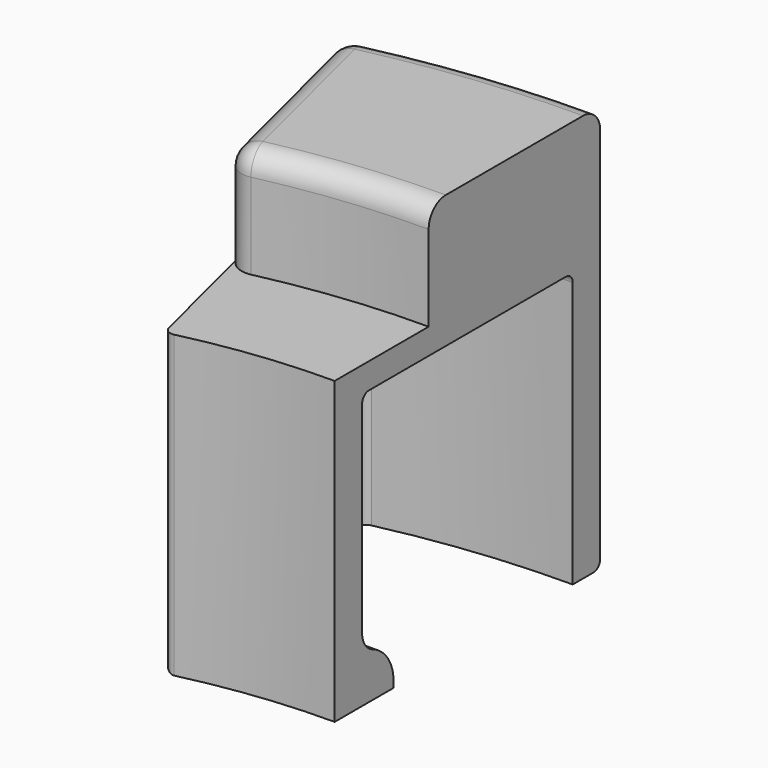
from build123d import *

# Parameters (mm, degrees)
BOX_W             = 10
BOX_H             = 15
BOX_DEPTH         = 15
PAD_DEPTH         = 2
PAD_DEPTH_BACK    = 7.5
POCKET_DEPTH      = 6.4
POCKET001_DEPTH   = 2.5
PAD005_DEPTH      = 0.45
PAD005_DEPTH_BACK = 0.45
FILLET_R          = 0.5
FILLET008_R       = 0.2
FILLET009_R       = 0.2
FILLET010_R       = 0.5
SKETCH013_W       = 3
SKETCH013_H       = 1
PAD008_DEPTH      = 1
FILLET015_R       = 0.5
FILLET016_R       = 0.99


with BuildPart() as obj1:
    # Box → Box (new body)
    with BuildSketch(Plane(origin=(0, -9, 0), x_dir=(1, 0, 0), z_dir=(0, 0, 1))):
        with Locations((5, 7.5)):
            Rectangle(BOX_W, BOX_H)
    extrude(amount=BOX_DEPTH)


with BuildPart() as obj2:
    # Sketch (on DatumPlane) → Pad (new body, two sides)
    with BuildSketch(Plane.XY.offset(10)) as pad_sk:
        with BuildLine():
            ThreePointArc((5.5, 1.920538), (0, 2.6), (-5.5, 1.920538))
            Line((-5.5, 1.920538), (-3.616372, -5.586761))
            ThreePointArc((3.616372, -5.586761), (0, -5.14), (-3.616372, -5.586761))
            Line((3.616372, -5.586761), (5.5, 1.920538))
        make_face()
    extrude(amount=PAD_DEPTH)
    extrude(pad_sk.sketch, amount=-PAD_DEPTH_BACK)

    # Sketch001 (on Face5 of Pad) → Pocket (cut)
    with BuildSketch(Plane(origin=(0, 0, 2.5), x_dir=(1, 0, 0), z_dir=(0, 0, -1))):
        with BuildLine():
            ThreePointArc((-4.515394, -1.283614), (0, -1.8), (4.515394, -1.283614))
            Line((3.020793, 4.673197), (4.515394, -1.283614))
            ThreePointArc((-3.020793, 4.673197), (0, 4.34), (3.020793, 4.673197))
            Line((-4.515394, -1.283614), (-3.020793, 4.673197))
        make_face()
    extrude(amount=-POCKET_DEPTH, mode=Mode.SUBTRACT)

    # Sketch002 (on Face5 of Pocket) → Pocket001 (cut)
    with BuildSketch(Plane.XY.offset(12)):
        with BuildLine():
            ThreePointArc((4.283186, -2.929138), (0, -2.4), (-4.283186, -2.929138))
            Line((-4.283186, -2.929138), (-3.616372, -5.586761))
            ThreePointArc((3.616372, -5.586761), (0, -5.14), (-3.616372, -5.586761))
            Line((4.283186, -2.929138), (3.616372, -5.586761))
        make_face()
    extrude(amount=-POCKET001_DEPTH, mode=Mode.SUBTRACT)

    # Sketch008 (on DatumPlane) → Pad005 (join, two sides)
    with BuildSketch(Plane.XY.offset(7.95)) as pad005_sk:
        Polygon((-3.9, 2.260952), (-3.9, 4.3), (-3, 4.3), (-2.1, 4.3), (-2.1, 2.502222), align=None)
        Polygon((2.1, 2.502222), (2.1, 4.3), (3, 4.3), (3.9, 4.3), (3.9, 2.260952), align=None)
    extrude(amount=PAD005_DEPTH)
    extrude(pad005_sk.sketch, amount=-PAD005_DEPTH_BACK)

    # Fillet
    fillet_edges = [obj2.edges().sort_by_distance(p)[0] for p in [
        (0, -2.4, 12),
        (4.891593, -0.5043, 12),
        (0, 2.6, 12),
        (-4.891593, -0.5043, 12),
        (4.283186, -2.929138, 10.75),
        (5.5, 1.920538, 7.25),
        (-5.5, 1.920538, 7.25),
        (-4.283186, -2.929138, 10.75),
    ]]
    fillet(fillet_edges, radius=FILLET_R)

    # Fillet008
    fillet008_edges = [obj2.edges().sort_by_distance(p)[0] for p in [
        (-3.616372, -5.586761, 6),
        (3.616372, -5.586761, 6),
        (-4.496657, -2.078339, 2.5),
        (4.496657, -2.078339, 2.5),
    ]]
    fillet(fillet008_edges, radius=FILLET008_R)

    # Fillet009
    fillet009_edges = [obj2.edges().sort_by_distance(p)[0] for p in [
        (0, -4.34, 8.9),
        (-3.768094, -1.694791, 8.9),
        (0, 1.8, 8.9),
        (3.768094, -1.694791, 8.9),
        (4.515394, 1.283614, 5.7),
        (3.020793, -4.673197, 5.7),
        (-3.020793, -4.673197, 5.7),
        (-4.515394, 1.283614, 5.7),
    ]]
    fillet(fillet009_edges, radius=FILLET009_R)

    # Fillet010
    fillet010_edges = [obj2.edges().sort_by_distance(p)[0] for p in [
        (-3.002424, 2.399675, 8.4),
        (-3.002424, 2.399675, 7.5),
        (3.002424, 2.399675, 7.5),
        (3.002424, 2.399675, 8.4),
    ]]
    fillet(fillet010_edges, radius=FILLET010_R)

    # Sketch013 (on Face21 of Fillet010) → Pad008 (join)
    with BuildSketch(Plane(origin=(0, 0, 2.5), x_dir=(1, 0, 0), z_dir=(0, 0, -1))):
        with Locations((0, 3.921408)):
            Rectangle(SKETCH013_W, SKETCH013_H)
    extrude(amount=-PAD008_DEPTH)

    # Fillet015
    fillet015_edges = [obj2.edges().sort_by_distance(p)[0] for p in [
        (0, -4.34, 3.5),
    ]]
    fillet(fillet015_edges, radius=FILLET015_R)

    # Fillet016
    fillet016_edges = [obj2.edges().sort_by_distance(p)[0] for p in [
        (0, -3.421408, 3.5),
    ]]
    fillet(fillet016_edges, radius=FILLET016_R)

    # Cut: cut obj1
    add(obj1.part, mode=Mode.SUBTRACT)


solid = obj2.part
